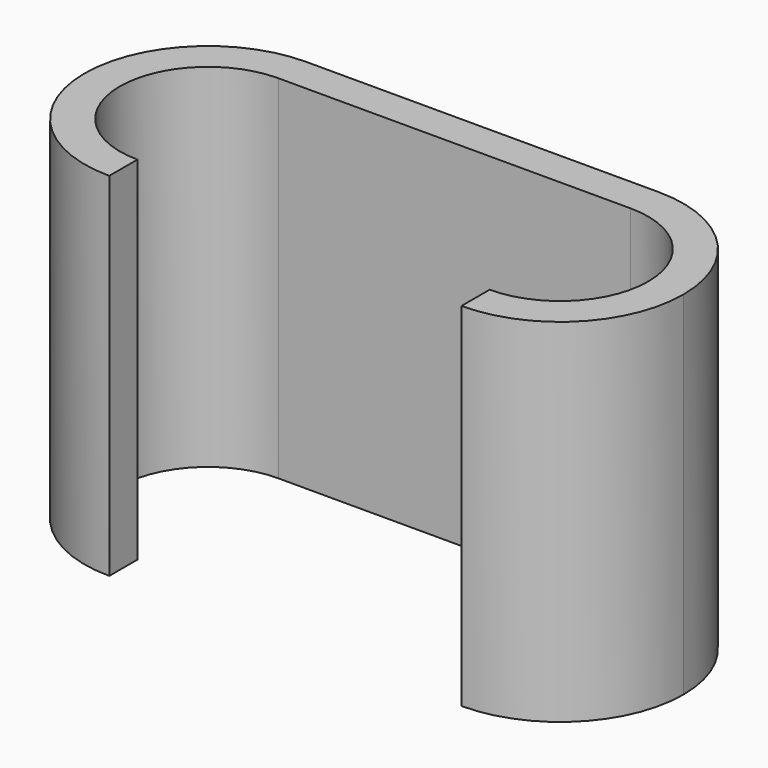
from build123d import *

# Parameters (mm, degrees)
F1_DEPTH = 25.4


with BuildPart() as f1:
    # F0 (on Top) → F1 (new body)
    with BuildSketch(Plane.XY):
        with BuildLine():
            ThreePointArc((-12.7, 8.89), (-21.59, 0), (-12.7, -8.89))
            Line((-12.7, -8.89), (-12.7, -6.35))
            ThreePointArc((-12.7, -6.35), (-19.05, 0), (-12.7, 6.35))
            Line((-12.7, 6.35), (-12.7, 8.89))
        make_face()
        with BuildLine():
            Line((-6.478296, 6.35), (6.478296, 6.35))
            ThreePointArc((6.478296, 6.35), (9.339896, 8.230541), (12.7, 8.89))
            Line((12.7, 8.89), (-12.7, 8.89))
            ThreePointArc((-12.7, 8.89), (-9.339896, 8.230541), (-6.478296, 6.35))
        make_face()
        with BuildLine():
            Line((6.478296, 6.35), (12.7, 6.35))
            Line((12.7, 6.35), (12.7, 8.89))
            ThreePointArc((12.7, 8.89), (9.339896, 8.230541), (6.478296, 6.35))
        make_face()
        with BuildLine():
            Line((-12.7, 6.35), (-6.478296, 6.35))
            ThreePointArc((-6.478296, 6.35), (-9.339896, 8.230541), (-12.7, 8.89))
            Line((-12.7, 8.89), (-12.7, 6.35))
        make_face()
        with BuildLine():
            ThreePointArc((19.05, 0), (17.190128, -4.490128), (12.7, -6.35))
            Line((12.7, -6.35), (12.7, -8.89))
            ThreePointArc((12.7, -8.89), (18.986179, -6.286179), (21.59, 0))
            ThreePointArc((21.59, 0), (18.986179, 6.286179), (12.7, 8.89))
            Line((12.7, 8.89), (12.7, 6.35))
            ThreePointArc((12.7, 6.35), (17.190128, 4.490128), (19.05, 0))
        make_face()
    extrude(amount=F1_DEPTH)


solid = f1.part
